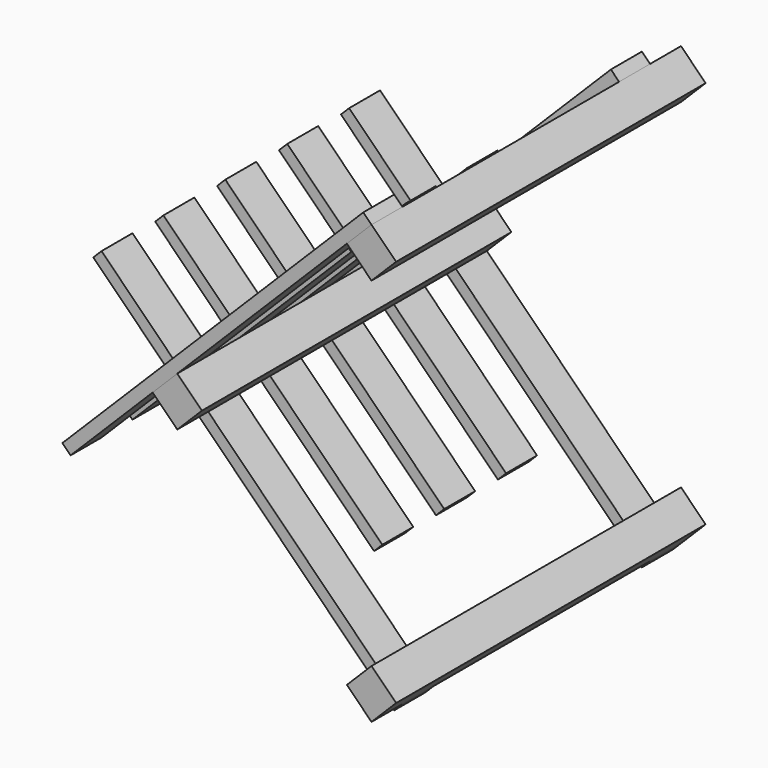
from build123d import *

# Parameters (mm, degrees)
F1_DEPTH = 250
F2_W     = 205
F2_H     = 50
F2_W_2   = 150
F2_W_3   = 45
F3_DEPTH = 15
F4_W     = 50
F4_H     = 150
F4_H_2   = 205
F4_H_3   = 45
F5_DEPTH = 15
F6_W     = 450
F6_H     = 45
F6_W_2   = 50
F7_DEPTH = 45
F8_W     = 45
F8_H     = 450
F8_H_2   = 50
F9_DEPTH = 45


with BuildPart() as f1:
    # F0 (on Front) → F1 (new body, symmetric)
    with BuildSketch(Plane.XZ):
        Polygon((31.8198051534, 0), (0, 31.8198051534), (-31.8198051534, 0), (0, -31.8198051534), align=None)
    extrude(amount=F1_DEPTH, both=True)


with BuildPart() as f3:
    # F2 (on face) → F3 (new body)
    with BuildSketch(Plane(origin=(-15.9099025767, 0, 15.9099025767), x_dir=(0.7071067812, 0, 0.7071067812), z_dir=(-0.7071067812, 0, 0.7071067812))):
        with Locations((125, -225)):
            Rectangle(F2_W, F2_H)
        with Locations((302.5, -225)):
            Rectangle(F2_W_2, F2_H)
        with Locations((-97.5, -225)):
            Rectangle(F2_W_2, F2_H)
        with Locations((0, -225)):
            Rectangle(F2_W_3, F2_H)
    extrude(amount=F3_DEPTH)


with BuildPart() as f3b:
    # F2 (on face) → F3, piece 2 (new body)
    with BuildSketch(Plane(origin=(-15.9099025767, 0, 15.9099025767), x_dir=(0.7071067812, 0, 0.7071067812), z_dir=(-0.7071067812, 0, 0.7071067812))):
        with Locations((0, -125)):
            Rectangle(F2_W_3, F2_H)
        with Locations((125, -125)):
            Rectangle(F2_W, F2_H)
        with Locations((-97.5, -125)):
            Rectangle(F2_W_2, F2_H)
    extrude(amount=F3_DEPTH)


with BuildPart() as f3c:
    # F2 (on face) → F3, piece 3 (new body)
    with BuildSketch(Plane(origin=(-15.9099025767, 0, 15.9099025767), x_dir=(0.7071067812, 0, 0.7071067812), z_dir=(-0.7071067812, 0, 0.7071067812))):
        with Locations((0, -25)):
            Rectangle(F2_W_3, F2_H)
        with Locations((125, -25)):
            Rectangle(F2_W, F2_H)
        with Locations((-97.5, -25)):
            Rectangle(F2_W_2, F2_H)
    extrude(amount=F3_DEPTH)


with BuildPart() as f3d:
    # F2 (on face) → F3, piece 4 (new body)
    with BuildSketch(Plane(origin=(-15.9099025767, 0, 15.9099025767), x_dir=(0.7071067812, 0, 0.7071067812), z_dir=(-0.7071067812, 0, 0.7071067812))):
        with Locations((0, 75)):
            Rectangle(F2_W_3, F2_H)
        with Locations((125, 75)):
            Rectangle(F2_W, F2_H)
        with Locations((-97.5, 75)):
            Rectangle(F2_W_2, F2_H)
    extrude(amount=F3_DEPTH)


with BuildPart() as f3e:
    # F2 (on face) → F3, piece 5 (new body)
    with BuildSketch(Plane(origin=(-15.9099025767, 0, 15.9099025767), x_dir=(0.7071067812, 0, 0.7071067812), z_dir=(-0.7071067812, 0, 0.7071067812))):
        with Locations((0, 175)):
            Rectangle(F2_W_3, F2_H)
        with Locations((125, 175)):
            Rectangle(F2_W, F2_H)
        with Locations((-97.5, 175)):
            Rectangle(F2_W_2, F2_H)
        with Locations((125, 175)):
            Rectangle(F2_W, F2_H)
        with Locations((302.5, 175)):
            Rectangle(F2_W_2, F2_H)
    extrude(amount=F3_DEPTH)


with BuildPart() as f5:
    # F4 (on face) → F5 (new body)
    with BuildSketch(Plane(origin=(-15.9099025767, 0, -15.9099025767), x_dir=(0, -1, 0), z_dir=(-0.7071067812, 0, -0.7071067812))):
        with Locations((175, -302.5)):
            Rectangle(F4_W, F4_H)
        with Locations((175, -125)):
            Rectangle(F4_W, F4_H_2)
        with Locations((175, 0)):
            Rectangle(F4_W, F4_H_3)
        with Locations((175, 97.5)):
            Rectangle(F4_W, F4_H)
    extrude(amount=F5_DEPTH)


with BuildPart() as f5b:
    # F4 (on face) → F5, piece 2 (new body)
    with BuildSketch(Plane(origin=(-15.9099025767, 0, -15.9099025767), x_dir=(0, -1, 0), z_dir=(-0.7071067812, 0, -0.7071067812))):
        with Locations((75, 97.5)):
            Rectangle(F4_W, F4_H)
        with Locations((75, 0)):
            Rectangle(F4_W, F4_H_3)
        with Locations((75, -125)):
            Rectangle(F4_W, F4_H_2)
    extrude(amount=F5_DEPTH)


with BuildPart() as f5c:
    # F4 (on face) → F5, piece 3 (new body)
    with BuildSketch(Plane(origin=(-15.9099025767, 0, -15.9099025767), x_dir=(0, -1, 0), z_dir=(-0.7071067812, 0, -0.7071067812))):
        with Locations((-25, -125)):
            Rectangle(F4_W, F4_H_2)
        with Locations((-25, 0)):
            Rectangle(F4_W, F4_H_3)
        with Locations((-25, 97.5)):
            Rectangle(F4_W, F4_H)
    extrude(amount=F5_DEPTH)


with BuildPart() as f5d:
    # F4 (on face) → F5, piece 4 (new body)
    with BuildSketch(Plane(origin=(-15.9099025767, 0, -15.9099025767), x_dir=(0, -1, 0), z_dir=(-0.7071067812, 0, -0.7071067812))):
        with Locations((-125, -125)):
            Rectangle(F4_W, F4_H_2)
        with Locations((-125, 0)):
            Rectangle(F4_W, F4_H_3)
        with Locations((-125, 97.5)):
            Rectangle(F4_W, F4_H)
    extrude(amount=F5_DEPTH)


with BuildPart() as f5e:
    # F4 (on face) → F5, piece 5 (new body)
    with BuildSketch(Plane(origin=(-15.9099025767, 0, -15.9099025767), x_dir=(0, -1, 0), z_dir=(-0.7071067812, 0, -0.7071067812))):
        with Locations((-225, 97.5)):
            Rectangle(F4_W, F4_H)
        with Locations((-225, 0)):
            Rectangle(F4_W, F4_H_3)
        with Locations((-225, -125)):
            Rectangle(F4_W, F4_H_2)
        with Locations((-225, -302.5)):
            Rectangle(F4_W, F4_H)
    extrude(amount=F5_DEPTH)


with BuildPart() as f7:
    # F6 (on face) → F7 (new body)
    with BuildSketch(Plane(origin=(-15.9099025767, 0, -15.9099025767), x_dir=(0, 1, 0), z_dir=(0.7071067812, 0, 0.7071067812))):
        with Locations((-25, -355)):
            Rectangle(F6_W, F6_H)
        with Locations((225, -355)):
            Rectangle(F6_W_2, F6_H)
    extrude(amount=F7_DEPTH)


with BuildPart() as f9:
    # F8 (on face) → F9 (new body)
    with BuildSketch(Plane(origin=(-15.9099025767, 0, 15.9099025767), x_dir=(0.7071067812, 0, 0.7071067812), z_dir=(0.7071067812, 0, -0.7071067812))):
        with Locations((355, -25)):
            Rectangle(F8_W, F8_H)
        with Locations((355, 225)):
            Rectangle(F8_W, F8_H_2)
    extrude(amount=F9_DEPTH)


solid = Compound([f1.part, f3.part, f3b.part, f3c.part, f3d.part, f3e.part, f5.part, f5b.part, f5c.part, f5d.part, f5e.part, f7.part, f9.part])
